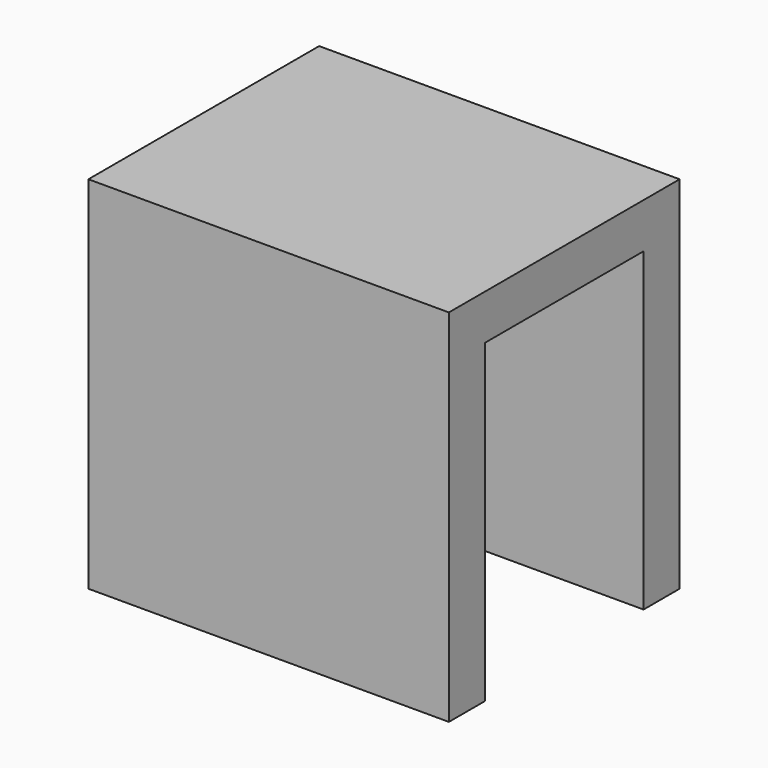
from build123d import *

# Parameters (mm, degrees)
F0_W     = 20
F0_H     = 20
F1_DEPTH = 16
F2_T     = -2.5


with BuildPart() as f1:
    # F0 (on Front) → F1 (new body)
    with BuildSketch(Plane.XZ):
        Rectangle(F0_W, F0_H)
    extrude(amount=F1_DEPTH)

    # F2
    f2_openings = [f1.faces().sort_by_distance(p)[0] for p in [
        (0, -8, -10),
        (10, -8, 0),
    ]]
    offset(amount=F2_T, openings=f2_openings)


solid = f1.part
